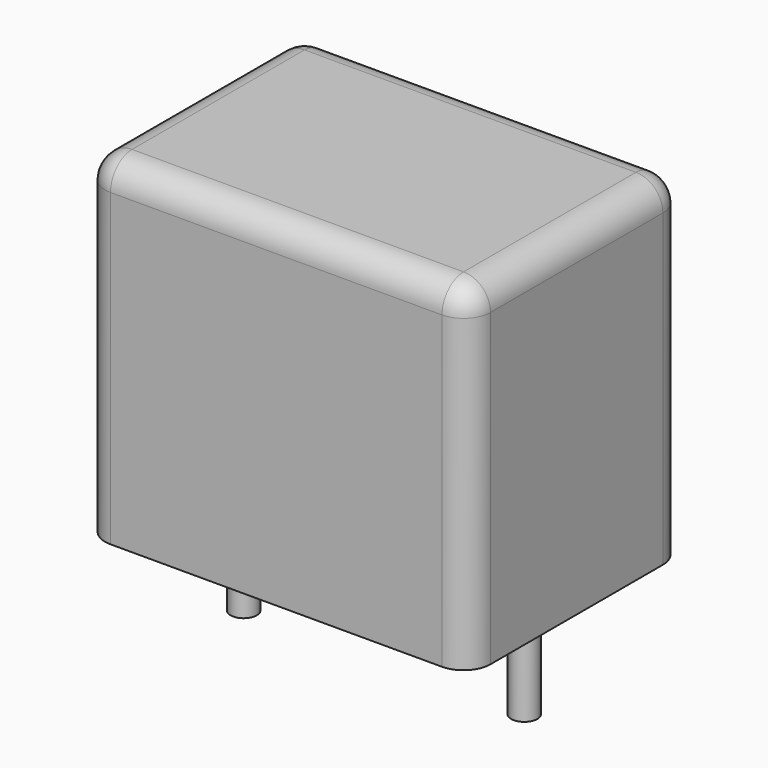
from build123d import *

# Parameters (mm, degrees)
SKETCH_W     = 10.3
SKETCH_H     = 7.2
PAD_DEPTH    = 9
FILLET_R     = 0.72
SKETCH001_R  = 0.35
PAD001_DEPTH = 3.2


with BuildPart() as fillet_body:
    # Sketch → Pad (new body)
    with BuildSketch(Plane.XY.offset(0.1)):
        with Locations((3.75, 0)):
            Rectangle(SKETCH_W, SKETCH_H)
    extrude(amount=PAD_DEPTH)

    # Fillet
    fillet_edges = [fillet_body.edges().sort_by_distance(p)[0] for p in [
        (-1.4, 0, 9.1),
        (-1.4, -3.6, 4.6),
        (3.75, -3.6, 9.1),
        (8.9, -3.6, 4.6),
        (8.9, 0, 9.1),
        (8.9, 3.6, 4.6),
        (3.75, 3.6, 9.1),
        (-1.4, 3.6, 4.6),
    ]]
    fillet(fillet_edges, radius=FILLET_R)


with BuildPart() as pad001:
    # Sketch001 → Pad001 (new body)
    with BuildSketch(Plane.XY.offset(0.5)):
        Circle(SKETCH001_R)
        with Locations((7.5, 0)):
            Circle(SKETCH001_R)
    extrude(amount=-PAD001_DEPTH)


solid = Compound([fillet_body.part, pad001.part])
